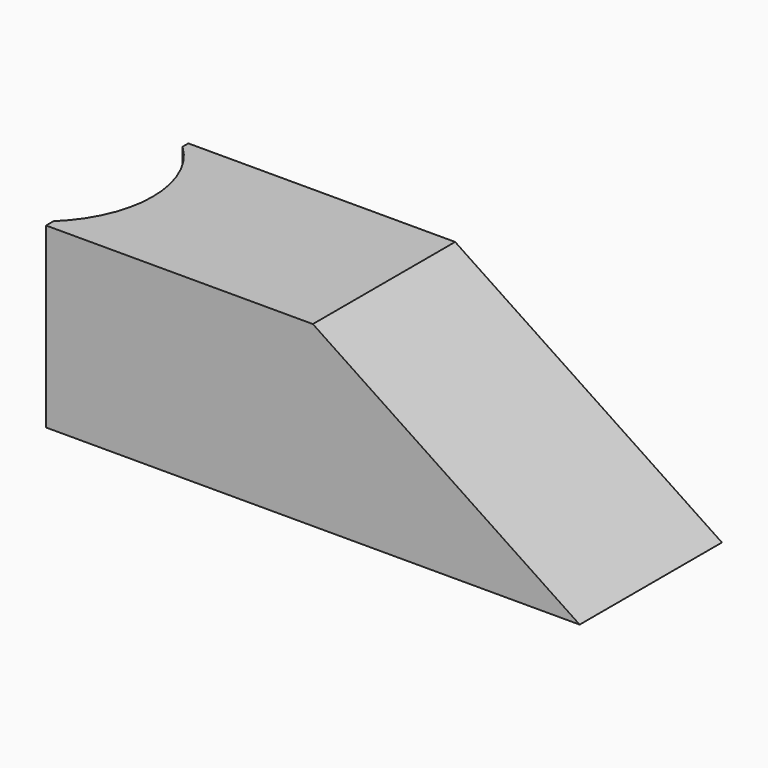
from build123d import *

# Parameters (mm, degrees)
F1_DEPTH = 50.8
F3_D     = 63.5


with BuildPart() as f1:
    # F0 (on Front) → F1 (new body)
    with BuildSketch(Plane.XZ):
        Polygon((-16.033751, 0), (-92.233751, 0), (-92.233751, -50.8), (60.166249, -50.8), align=None)
    extrude(amount=-F1_DEPTH)

    # F3 (through all)
    with Locations(Plane.XY):
        with Locations((-114.100904, 25.703646)):
            Hole(F3_D / 2)


solid = f1.part
